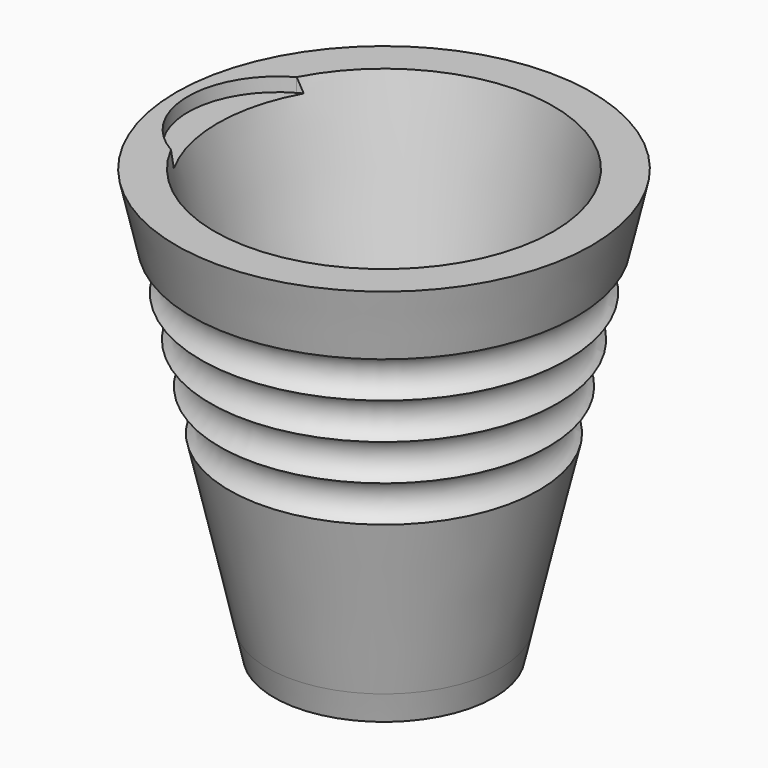
from build123d import *

# Parameters (mm, degrees)
F3_DEPTH = 2.54


with BuildPart() as f1:
    # F0 (on Front) → F1 (revolve)
    with BuildSketch(Plane.XZ):
        Polygon((14.3256, -18.576595), (0, -18.576595), (0, -23.689048), (20.149108, -23.689048), (21.310629, -18.576595), (18.322335, -18.576595), align=None)
        with BuildLine():
            Line((18.546099, 0), (14.3256, -18.576595))
            Line((14.3256, -18.576595), (18.322335, -18.576595))
            Line((18.322335, -18.576595), (21.310629, -18.576595))
            Line((21.310629, -18.576595), (28.341246, 12.368768))
            ThreePointArc((28.341246, 12.368768), (26.358349, 16.794042), (30.058687, 19.928118))
            ThreePointArc((30.058687, 19.928118), (28.07579, 24.353384), (31.776124, 27.487452))
            ThreePointArc((31.776124, 27.487452), (29.793229, 31.912717), (33.493562, 35.046785))
            ThreePointArc((33.493562, 35.046785), (31.510668, 39.47205), (35.210999, 42.606118))
            Line((35.210999, 42.606118), (38.023507, 54.98543))
            Line((38.023507, 54.98543), (35.035223, 54.98543))
            Line((35.035223, 54.98543), (31.038482, 54.98543))
            Line((31.038482, 54.98543), (21.359765, 12.384397))
            Line((21.359765, 12.384397), (18.546099, 0))
        make_face()
    revolve(axis=Axis((0, 0, 27.44695), (0, 0, 1)))

    # F2 (on face) → F3 (cut)
    with BuildSketch(Plane.XY.offset(54.98543)):
        with BuildLine():
            ThreePointArc((-27.501015, -14.390328), (-11.072349, -14.251272), (-2.897896, 0))
            ThreePointArc((-2.897896, 0), (-11.072349, 14.251272), (-27.501015, 14.390328))
            ThreePointArc((-27.501015, 14.390328), (-31.038482, 0), (-27.501015, -14.390328))
        make_face()
        with BuildLine():
            ThreePointArc((-27.501015, -14.390328), (-31.038482, 0), (-27.501015, 14.390328))
            ThreePointArc((-27.501015, 14.390328), (-35.917896, 0), (-27.501015, -14.390328))
        make_face()
    extrude(amount=-F3_DEPTH, mode=Mode.SUBTRACT)


solid = f1.part
